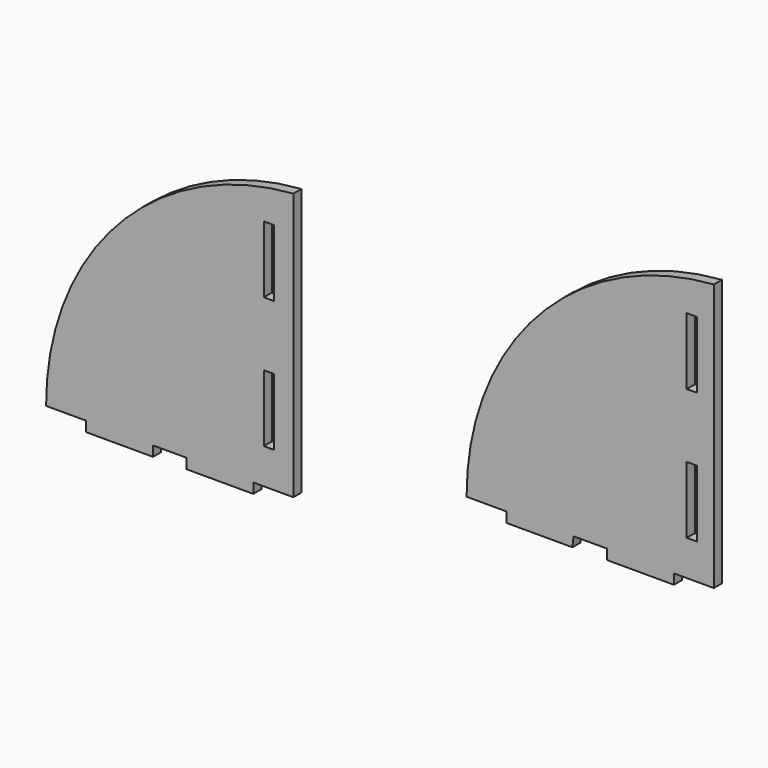
from build123d import *

# Parameters (mm, degrees)
F0_W     = 19.177
F0_H     = 127
F1_DEPTH = 19.177


with BuildPart() as f1:
    # F0 (on Front) → F1 (new body)
    with BuildSketch(Plane.XZ):
        with BuildLine():
            Line((121.892353, -174.098967), (121.892353, 333.901033))
            ThreePointArc((121.892353, 333.901033), (-212.932177, 172.284973), (-348.007647, -174.098967))
            Line((-348.007647, -174.098967), (-271.807647, -174.098967))
            Line((-271.807647, -174.098967), (-144.807647, -174.098967))
            Line((-144.807647, -174.098967), (-81.307647, -174.098967))
            Line((-81.307647, -174.098967), (45.692353, -174.098967))
            Line((45.692353, -174.098967), (121.892353, -174.098967))
        make_face()
        with Locations((79.96203, -43.248559)):
            Rectangle(F0_W, F0_H, mode=Mode.SUBTRACT)
        with Locations((79.96203, 205.671441)):
            Rectangle(F0_W, F0_H, mode=Mode.SUBTRACT)
        Polygon((46.050249, -193.272627), (45.692353, -174.098967), (-81.307647, -174.098967), (-81.307647, -193.272627), align=None)
        Polygon((-144.807647, -174.098967), (-271.807647, -174.098967), (-271.807647, -193.275967), (-146.828368, -193.275967), align=None)
        with BuildLine():
            Line((-677.164702, -281.990628), (-677.164702, 226.009372))
            ThreePointArc((-677.164702, 226.009372), (-1011.989232, 64.393312), (-1147.064702, -281.990628))
            Line((-1147.064702, -281.990628), (-1070.864702, -281.990628))
            Line((-1070.864702, -281.990628), (-1070.864702, -301.167628))
            Line((-1070.864702, -301.167628), (-943.864702, -301.167628))
            Line((-943.864702, -301.167628), (-943.864702, -281.990628))
            Line((-943.864702, -281.990628), (-880.364702, -281.990628))
            Line((-880.364702, -281.990628), (-880.364702, -301.167628))
            Line((-880.364702, -301.167628), (-753.364702, -301.167628))
            Line((-753.364702, -301.167628), (-753.364702, -281.990628))
            Line((-753.364702, -281.990628), (-677.164702, -281.990628))
        make_face()
        with Locations((-723.667026, -151.14022)):
            Rectangle(F0_W, F0_H, mode=Mode.SUBTRACT)
        with Locations((-723.667026, 97.77978)):
            Rectangle(F0_W, F0_H, mode=Mode.SUBTRACT)
    extrude(amount=F1_DEPTH)


solid = f1.part
